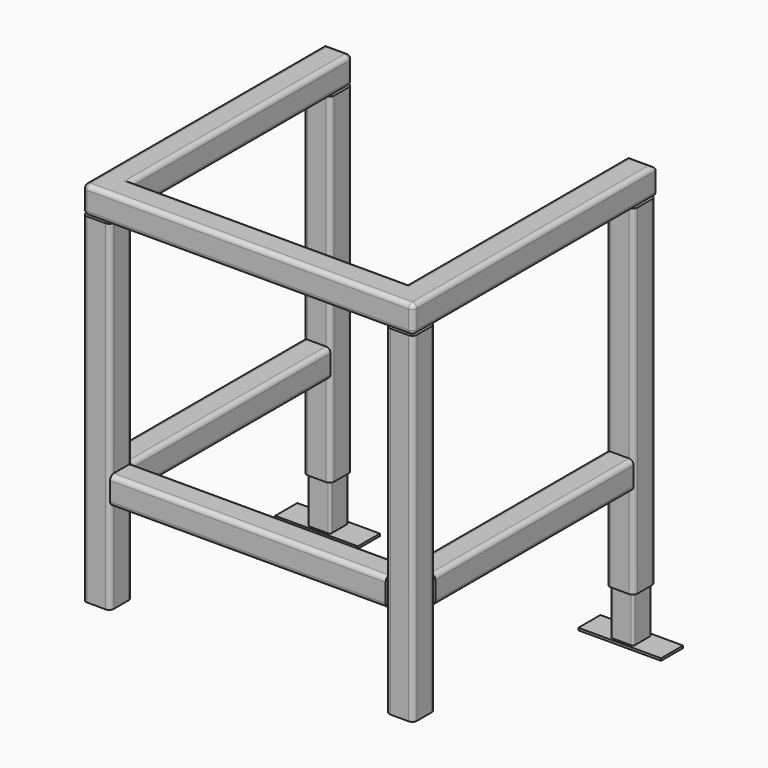
from build123d import *

# Parameters (mm, degrees)
F0_W      = 180
F0_H      = 60
F1_DEPTH  = 5
F2_W      = 50
F2_H      = 50
F3_DEPTH  = 100
F4_R      = 5
F4_2_R    = 5
F6_DEPTH  = 740
F8_DEPTH  = 60
F9_R      = 10
F11_DEPTH = 600
F13_DEPTH = 540
F12_W     = 40
F12_H     = 60


with BuildPart() as f1:
    # F0 (on Top) → F1 (new body)
    with BuildSketch(Plane.XY):
        with Locations((-387.9661596795, -25.6445559366)):
            Rectangle(F0_W, F0_H)
    extrude(amount=F1_DEPTH)


with BuildPart() as f1b:
    # F0 (on Top) → F1, piece 2 (new body)
    with BuildSketch(Plane.XY):
        with Locations((272.0338403205, -25.6445559366)):
            Rectangle(F0_W, F0_H)
    extrude(amount=F1_DEPTH)


with BuildPart() as f3:
    # F2 (on face) → F3 (new body)
    with BuildSketch(Plane.XY.offset(5)):
        with Locations((-387.9661596795, -25)):
            Rectangle(F2_W, F2_H)
    extrude(amount=F3_DEPTH)

    # F4
    f4_edges = [f3.edges().sort_by_distance(p)[0] for p in [
        (-412.96616, -50, 55),
        (-362.96616, -50, 55),
        (-412.96616, 0, 55),
        (-362.96616, 0, 55),
    ]]
    fillet(f4_edges, radius=F4_R)


with BuildPart() as f3b:
    # F2 (on face) → F3, piece 2 (new body)
    with BuildSketch(Plane.XY.offset(5)):
        with Locations((272.0338403205, -25)):
            Rectangle(F2_W, F2_H)
    extrude(amount=F3_DEPTH)

    # F4#2
    f4_2_edges = [f3b.edges().sort_by_distance(p)[0] for p in [
        (297.03384, 0, 55),
        (247.03384, 0, 55),
        (297.03384, -50, 55),
        (247.03384, -50, 55),
    ]]
    fillet(f4_2_edges, radius=F4_2_R)


with BuildPart() as f6:
    # F5 (on face) → F6 (new body)
    with BuildSketch(Plane.XY.offset(105)):
        with BuildLine():
            Line((-367.9661596795, 5), (-407.9661596795, 5))
            ThreePointArc((-407.9661596795, 5), (-415.0372274914, 2.0710678119), (-417.9661596795, -5))
            Line((-417.9661596795, -5), (-417.9661596795, -45))
            ThreePointArc((-417.9661596795, -45), (-415.0372274914, -52.0710678119), (-407.9661596795, -55))
            Line((-407.9661596795, -55), (-367.9661596795, -55))
            ThreePointArc((-367.9661596795, -55), (-360.8950918677, -52.0710678119), (-357.9661596795, -45))
            Line((-357.9661596795, -45), (-357.9661596795, -5))
            ThreePointArc((-357.9661596795, -5), (-360.8950918677, 2.0710678119), (-367.9661596795, 5))
        make_face()
        with BuildLine():
            Line((-407.9661596795, 0), (-367.9661596795, 0))
            ThreePointArc((-367.9661596795, 0), (-364.4306257736, -1.4644660941), (-362.9661596795, -5))
            Line((-362.9661596795, -5), (-362.9661596795, -45))
            ThreePointArc((-362.9661596795, -45), (-364.4306257736, -48.5355339059), (-367.9661596795, -50))
            Line((-367.9661596795, -50), (-407.9661596795, -50))
            ThreePointArc((-407.9661596795, -50), (-411.5016935855, -48.5355339059), (-412.9661596795, -45))
            Line((-412.9661596795, -45), (-412.9661596795, -5))
            ThreePointArc((-412.9661596795, -5), (-411.5016935855, -1.4644660941), (-407.9661596795, 0))
        make_face(mode=Mode.SUBTRACT)
        with BuildLine():
            ThreePointArc((-362.9661596795, -5), (-364.4306257736, -1.4644660941), (-367.9661596795, 0))
            Line((-367.9661596795, 0), (-407.9661596795, 0))
            ThreePointArc((-407.9661596795, 0), (-411.5016935855, -1.4644660941), (-412.9661596795, -5))
            Line((-412.9661596795, -5), (-412.9661596795, -45))
            ThreePointArc((-412.9661596795, -45), (-411.5016935855, -48.5355339059), (-407.9661596795, -50))
            Line((-407.9661596795, -50), (-367.9661596795, -50))
            ThreePointArc((-367.9661596795, -50), (-364.4306257736, -48.5355339059), (-362.9661596795, -45))
            Line((-362.9661596795, -45), (-362.9661596795, -5))
        make_face()
    extrude(amount=F6_DEPTH)


with BuildPart() as f6b:
    # F5 (on face) → F6, piece 2 (new body)
    with BuildSketch(Plane.XY.offset(105)):
        with BuildLine():
            Line((292.0338403205, 5), (252.0338403205, 5))
            ThreePointArc((252.0338403205, 5), (244.9627725086, 2.0710678119), (242.0338403205, -5))
            Line((242.0338403205, -5), (242.0338403205, -45))
            ThreePointArc((242.0338403205, -45), (244.9627725086, -52.0710678119), (252.0338403205, -55))
            Line((252.0338403205, -55), (292.0338403205, -55))
            ThreePointArc((292.0338403205, -55), (299.1049081323, -52.0710678119), (302.0338403205, -45))
            Line((302.0338403205, -45), (302.0338403205, -5))
            ThreePointArc((302.0338403205, -5), (299.1049081323, 2.0710678119), (292.0338403205, 5))
        make_face()
    extrude(amount=F6_DEPTH)


with BuildPart() as f6c:
    # F5 (on face) → F6, piece 3 (new body)
    with BuildSketch(Plane.XY.offset(105)):
        with BuildLine():
            ThreePointArc((242.0338403205, -645), (244.9627725086, -652.0710678119), (252.0338403205, -655))
            Line((252.0338403205, -655), (292.0338403205, -655))
            ThreePointArc((292.0338403205, -655), (299.1049081323, -652.0710678119), (302.0338403205, -645))
            Line((302.0338403205, -645), (302.0338403205, -605))
            ThreePointArc((302.0338403205, -605), (299.1049081323, -597.9289321881), (292.0338403205, -595))
            Line((292.0338403205, -595), (252.0338403205, -595))
            ThreePointArc((252.0338403205, -595), (244.9627725086, -597.9289321881), (242.0338403205, -605))
            Line((242.0338403205, -605), (242.0338403205, -645))
        make_face()
    extrude(amount=F6_DEPTH)


with BuildPart() as f6d:
    # F5 (on face) → F6, piece 4 (new body)
    with BuildSketch(Plane.XY.offset(105)):
        with BuildLine():
            ThreePointArc((-417.9661596795, -645), (-415.0372274914, -652.0710678119), (-407.9661596795, -655))
            Line((-407.9661596795, -655), (-367.9661596795, -655))
            ThreePointArc((-367.9661596795, -655), (-360.8950918677, -652.0710678119), (-357.9661596795, -645))
            Line((-357.9661596795, -645), (-357.9661596795, -605))
            ThreePointArc((-357.9661596795, -605), (-360.8950918677, -597.9289321881), (-367.9661596795, -595))
            Line((-367.9661596795, -595), (-407.9661596795, -595))
            ThreePointArc((-407.9661596795, -595), (-415.0372274914, -597.9289321881), (-417.9661596795, -605))
            Line((-417.9661596795, -605), (-417.9661596795, -645))
        make_face()
    extrude(amount=F6_DEPTH)


with BuildPart() as f8:
    # F7 (on face) → F8 (new body)
    with BuildSketch(Plane.XY.offset(845)):
        Polygon((-357.9661596795, 5), (-417.9661596795, 5), (-417.9661596795, -655), (302.0338403205, -655), (302.0338403205, 5), (242.0338403205, 5), (242.0338403205, -55), (242.0338403205, -595), (-357.9661596795, -595), (-357.9661596795, -55), align=None)
    extrude(amount=F8_DEPTH)

    # F9
    f9_edges = [f8.edges().sort_by_distance(p)[0] for p in [
        (-57.96616, -595, 905),
        (-357.96616, -295, 905),
        (-387.96616, 5, 905),
        (-417.96616, -325, 905),
        (-57.96616, -655, 905),
        (302.03384, -325, 905),
        (272.03384, 5, 905),
        (242.03384, -295, 905),
        (-417.96616, -655, 875),
        (302.03384, -655, 875),
        (-357.96616, 5, 875),
        (-57.96616, -595, 845),
        (-357.96616, -295, 845),
        (-387.96616, 5, 845),
        (-417.96616, -325, 845),
        (-57.96616, -655, 845),
        (302.03384, -325, 845),
        (272.03384, 5, 845),
        (242.03384, -295, 845),
    ]]
    fillet(f9_edges, radius=F9_R)


with BuildPart() as f11:
    # F10 (on face) → F11 (new body)
    with BuildSketch(Plane.YZ.offset(-357.9661596795)):
        with BuildLine():
            ThreePointArc((-655, 315), (-652.0710678119, 307.9289321881), (-645, 305))
            Line((-645, 305), (-605, 305))
            ThreePointArc((-605, 305), (-597.9289321881, 307.9289321881), (-595, 315))
            Line((-595, 315), (-595, 355))
            ThreePointArc((-595, 355), (-597.9289321881, 362.0710678119), (-605, 365))
            Line((-605, 365), (-645, 365))
            ThreePointArc((-645, 365), (-652.0710678119, 362.0710678119), (-655, 355))
            Line((-655, 355), (-655, 315))
        make_face()
    extrude(amount=F11_DEPTH)


with BuildPart() as f13:
    # F12 (on face) → F13 (new body)
    with BuildSketch(Plane.XZ.offset(55)):
        with BuildLine():
            ThreePointArc((-357.9661596795, 355), (-360.8950918677, 362.0710678119), (-367.9661596795, 365))
            Line((-367.9661596795, 365), (-407.9661596795, 365))
            ThreePointArc((-407.9661596795, 365), (-415.0372274914, 362.0710678119), (-417.9661596795, 355))
            Line((-417.9661596795, 355), (-417.9661596795, 315))
            ThreePointArc((-417.9661596795, 315), (-415.0372274914, 307.9289321881), (-407.9661596795, 305))
            Line((-407.9661596795, 305), (-367.9661596795, 305))
            ThreePointArc((-367.9661596795, 305), (-360.8950918677, 307.9289321881), (-357.9661596795, 315))
            Line((-357.9661596795, 315), (-357.9661596795, 355))
        make_face()
    extrude(amount=F13_DEPTH)


with BuildPart() as f13b:
    # F12 (on face) → F13, piece 2 (new body)
    with BuildSketch(Plane.XZ.offset(55)):
        with BuildLine():
            ThreePointArc((242.0338403205, 315), (244.9627725086, 307.9289321881), (252.0338403205, 305))
            Line((252.0338403205, 305), (252.0338403205, 365))
            ThreePointArc((252.0338403205, 365), (244.9627725086, 362.0710678119), (242.0338403205, 355))
            Line((242.0338403205, 355), (242.0338403205, 315))
        make_face()
        with Locations((272.0338403205, 335)):
            Rectangle(F12_W, F12_H)
        with BuildLine():
            Line((292.0338403205, 365), (292.0338403205, 305))
            ThreePointArc((292.0338403205, 305), (299.1049081323, 307.9289321881), (302.0338403205, 315))
            Line((302.0338403205, 315), (302.0338403205, 355))
            ThreePointArc((302.0338403205, 355), (299.1049081323, 362.0710678119), (292.0338403205, 365))
        make_face()
    extrude(amount=F13_DEPTH)


solid = Compound([f1.part, f1b.part, f3.part, f3b.part, f6.part, f6b.part, f6c.part, f6d.part, f8.part, f11.part, f13.part, f13b.part])
